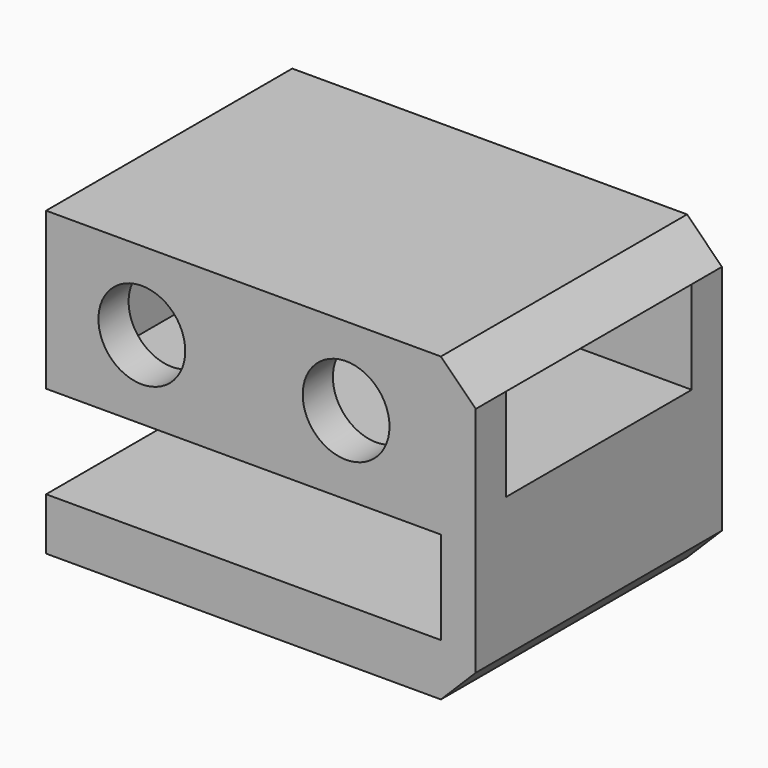
from build123d import *

# Parameters (mm, degrees)
F0_W     = 37
F0_H     = 26.5
F1_DEPTH = 26
F2_W     = 34
F2_H     = 8
F2_R     = 3.738116
F3_DEPTH = 26.501
F4_W     = 20
F4_H     = 8
F5_DEPTH = 34
F7_DEPTH = 26.501


with BuildPart() as f1:
    # F0 (on Top) → F1 (new body)
    with BuildSketch(Plane.XY):
        with Locations((-10.29259, 13.25)):
            Rectangle(F0_W, F0_H)
    extrude(amount=-F1_DEPTH)

    # F2 (on Front) → F3 (cut, through all)
    with BuildSketch(Plane.XZ):
        with Locations((-11.79259, -17.5)):
            Rectangle(F2_W, F2_H)
        with Locations((-20.547456, -6.75)):
            Circle(F2_R)
        with Locations((-2.956501, -6.75)):
            Circle(F2_R)
    extrude(amount=-F3_DEPTH, mode=Mode.SUBTRACT)

    # F4 (on face) → F5 (cut)
    with BuildSketch(Plane.YZ.offset(8.20741)):
        with Locations((13.25, -7)):
            Rectangle(F4_W, F4_H)
    extrude(amount=-F5_DEPTH, mode=Mode.SUBTRACT)

    # F6 (on face) → F7 (cut, through all)
    with BuildSketch(Plane(origin=(0, 26.5, 0), x_dir=(-1, 0, 0), z_dir=(0, 1, 0))):
        Polygon((-8.20741, 0), (-8.20741, -3), (-5.20741, 0), align=None)
        Polygon((-8.20741, -23), (-8.20741, -26), (-5.20741, -26), align=None)
    extrude(amount=-F7_DEPTH, mode=Mode.SUBTRACT)


solid = f1.part
